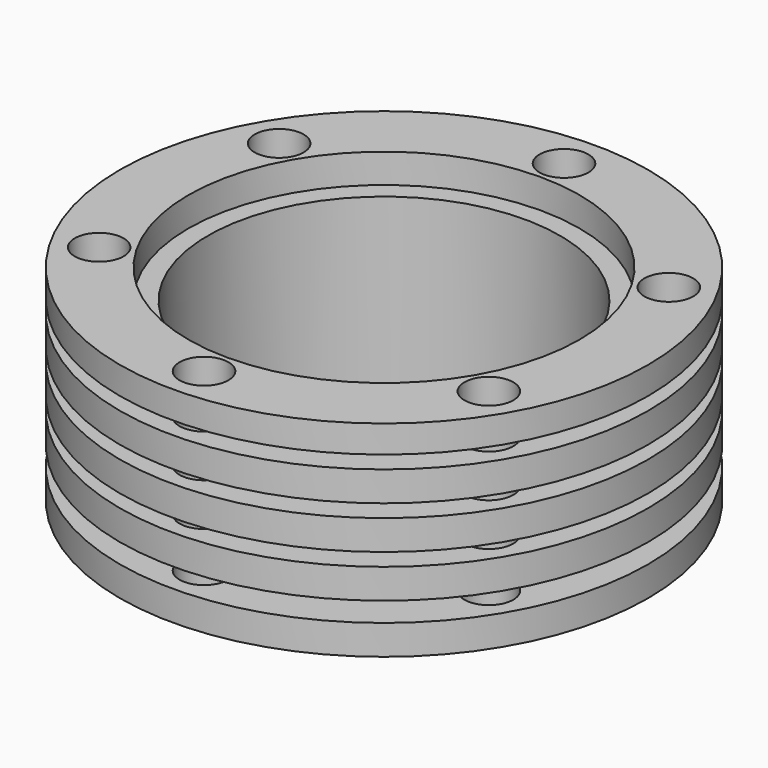
from build123d import *

# Parameters (mm, degrees)
F2_R     = 1.25
F3_DEPTH = 25


with BuildPart() as f1:
    # F0 (on Front) → F1 (revolve)
    with BuildSketch(Plane.XZ):
        Polygon((9, 9), (9, 0), (13.5, 0), (13.5, 1.525), (10.5, 1.525), (10.5, 2.525), (13.5, 2.525), (13.5, 4.05), (10.5, 4.05), (10.5, 4.716667), (13.5, 4.716667), (13.5, 6.241667), (10.5, 6.241667), (10.5, 6.908333), (13.5, 6.908333), (13.5, 8.433333), (10.5, 8.433333), (10.5, 9.1), (13.5, 9.1), (13.5, 10.5), (10, 10.5), (10, 9), align=None)
    revolve(axis=Axis((0, 0, 1e-06), (0, 0, -1)))

    # F2 (on face) → F3 (cut)
    with BuildSketch(Plane.XY.offset(10.5)):
        with Locations((0, 11.5)):
            Circle(F2_R)
        with Locations((-9.959292, 5.75)):
            Circle(F2_R)
        with Locations((-9.959292, -5.75)):
            Circle(F2_R)
        with Locations((0, -11.5)):
            Circle(F2_R)
        with Locations((9.959292, -5.75)):
            Circle(F2_R)
        with Locations((9.959292, 5.75)):
            Circle(F2_R)
    extrude(amount=-F3_DEPTH, mode=Mode.SUBTRACT)


solid = f1.part
